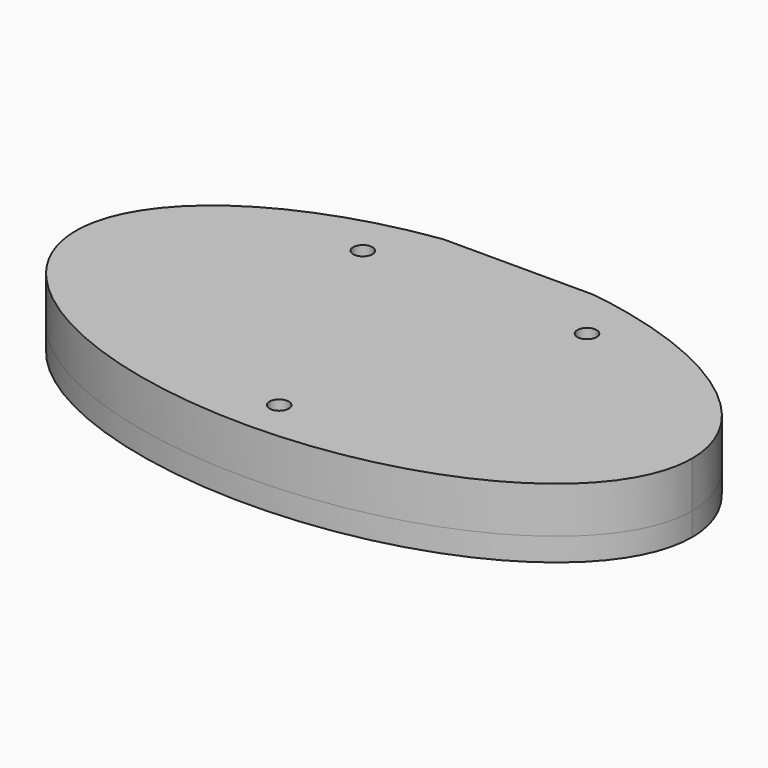
from build123d import *

# Parameters (mm, degrees)
PAD_DEPTH       = 6
POCKET_DEPTH    = 3
PAD001_DEPTH    = 3
SKETCH003_W     = 66
SKETCH003_H     = 2.77
POCKET001_DEPTH = 3
SKETCH004_W     = 19.6
SKETCH004_H     = 1
POCKET002_DEPTH = 9.001
SKETCH005_R     = 1.25
POCKET003_DEPTH = 9.001


with BuildPart() as part:
    # Sketch → Pad (new body)
    with BuildSketch(Plane.XY):
        with BuildLine():
            add(Edge.make_bspline(
                [(40, 0), (40, 38.971143), (-20, 19.485572), (-80, 0), (-20, -19.485572), (40, -38.971143), (40, 0)],
                knots=[0, 0, 0, 2.094395, 2.094395, 4.18879, 4.18879, 6.283185, 6.283185, 6.283185], degree=2, weights=[1, 0.5, 1, 0.5, 1, 0.5, 1]))
        make_face()
    extrude(amount=PAD_DEPTH)

    # Sketch001 (on Face2 of Pad) → Pocket (cut)
    with BuildSketch(Plane(origin=(0, 0, 0), x_dir=(1, 0, 0), z_dir=(0, 0, -1))):
        Polygon((9.55, -3.749324), (9.55, -21.849324), (-9.55, -21.849324), (-9.55, -3.749324), (-33, -3.749324), (-33, 6.250676), (33, 6.250676), (33, -3.749324), align=None)
    extrude(amount=-POCKET_DEPTH, mode=Mode.SUBTRACT)

    # Sketch002 (on Face2 of Pocket) → Pad001 (join)
    with BuildSketch(Plane(origin=(0, 0, 0), x_dir=(1, 0, 0), z_dir=(0, 0, -1))):
        with BuildLine():
            add(Edge.make_bspline(
                [(40, 0), (40, 38.971143), (-20, 19.485572), (-80, 0), (-20, -19.485572), (40, -38.971143), (40, 0)],
                knots=[0, 0, 0, 2.094395, 2.094395, 4.18879, 4.18879, 6.283185, 6.283185, 6.283185], degree=2, weights=[1, 0.5, 1, 0.5, 1, 0.5, 1]))
        make_face()
    extrude(amount=PAD001_DEPTH)

    # Sketch003 (on Face4 of Pad001) → Pocket001 (cut)
    with BuildSketch(Plane(origin=(0, 0, -3), x_dir=(1, 0, 0), z_dir=(0, 0, -1))):
        with Locations((0, 1.250676)):
            Rectangle(SKETCH003_W, SKETCH003_H)
    extrude(amount=-POCKET001_DEPTH, mode=Mode.SUBTRACT)

    # Sketch004 (on Face4 of Pocket001) → Pocket002 (cut, through all)
    with BuildSketch(Plane(origin=(0, 0, -3), x_dir=(1, 0, 0), z_dir=(0, 0, -1))):
        with Locations((0, -22.314269)):
            Rectangle(SKETCH004_W, SKETCH004_H)
    extrude(amount=-POCKET002_DEPTH, mode=Mode.SUBTRACT)

    # Sketch005 (on Face7 of Pocket002) → Pocket003 (cut, through all)
    with BuildSketch(Plane(origin=(0, 0, -3), x_dir=(1, 0, 0), z_dir=(0, 0, -1))):
        with Locations((-14.55, -14.749324)):
            Circle(SKETCH005_R)
        with Locations((0, 17)):
            Circle(SKETCH005_R)
        with Locations((14.55, -14.749324)):
            Circle(SKETCH005_R)
    extrude(amount=-POCKET003_DEPTH, mode=Mode.SUBTRACT)


solid = part.part
